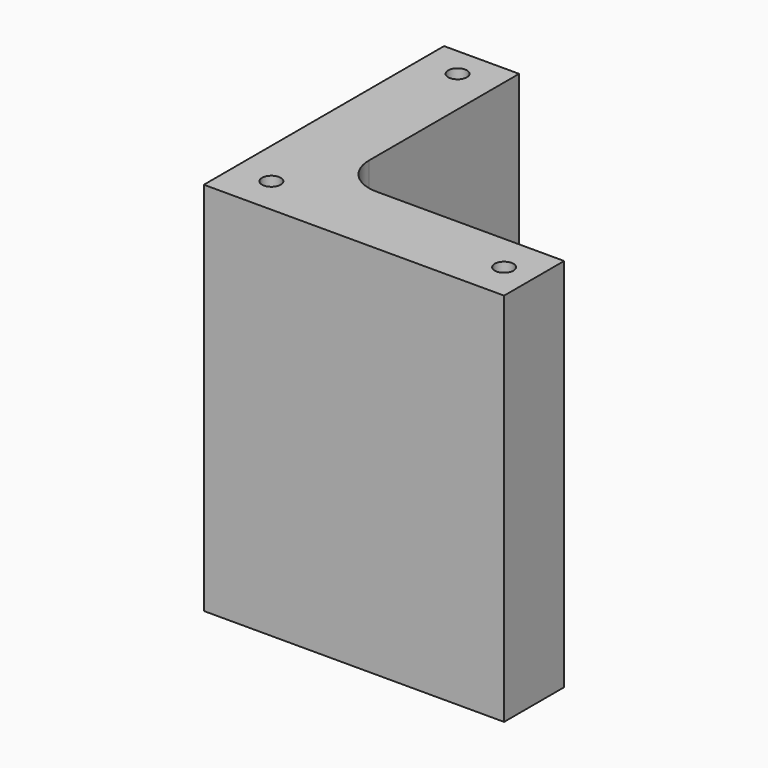
from build123d import *

# Parameters (mm, degrees)
F0_R     = 1.25
F1_DEPTH = 50
F2_R     = 5


with BuildPart() as f1:
    # F0 (on Top) → F1 (new body)
    with BuildSketch(Plane.XY):
        Polygon((10, 40), (0, 40), (0, 0), (40, 0), (40, 10), (10, 10), align=None)
        with Locations((5, 5)):
            Circle(F0_R, mode=Mode.SUBTRACT)
        with Locations((36, 5)):
            Circle(F0_R, mode=Mode.SUBTRACT)
        with Locations((5, 36)):
            Circle(F0_R, mode=Mode.SUBTRACT)
    extrude(amount=F1_DEPTH)

    # F2
    f2_edges = [f1.edges().sort_by_distance(p)[0] for p in [
        (10, 10, 25),
    ]]
    fillet(f2_edges, radius=F2_R)


solid = f1.part
